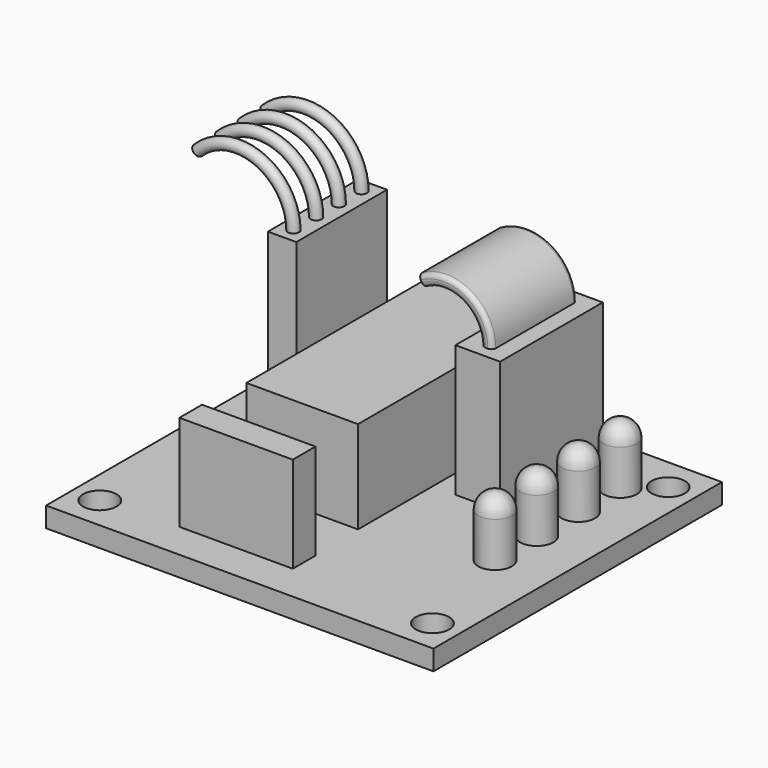
from build123d import *

# Parameters (mm, degrees)
SKETCH_W               = 34.7
SKETCH_H               = 32.3
SKETCH_R               = 1.5
PAD_DEPTH              = 1.8
SKETCH001_W            = 4
SKETCH001_H            = 11.5
PAD001_DEPTH           = 11.8
PAD002_DEPTH           = 9.5
FILLET_R               = 0.4
LINEARPATTERN_COUNT    = 4
LINEARPATTERN_PITCH    = 4.666667
SKETCH004_W            = 10
SKETCH004_H            = 20.5
PAD003_DEPTH           = 8.3
SKETCH005_W            = 2.54
SKETCH005_H            = 2.54
PAD004_DEPTH           = 16.5
SKETCH006_R            = 0.5
LINEARPATTERN001_COUNT = 4
LINEARPATTERN001_PITCH = 2.54
SKETCH008_W            = 10.16
SKETCH008_H            = 2.54
PAD005_DEPTH           = 8.6


with BuildPart() as part:
    # Sketch → Pad (new body)
    with BuildSketch(Plane.XY):
        Rectangle(SKETCH_W, SKETCH_H)
        with Locations((14.9, 13.2)):
            Circle(SKETCH_R, mode=Mode.SUBTRACT)
        with Locations((-14.9, 13.2)):
            Circle(SKETCH_R, mode=Mode.SUBTRACT)
        with Locations((-14.9, -13.2)):
            Circle(SKETCH_R, mode=Mode.SUBTRACT)
        with Locations((14.9, -13.2)):
            Circle(SKETCH_R, mode=Mode.SUBTRACT)
    extrude(amount=PAD_DEPTH)

    # Sketch001 (on Face10 of Pad) → Pad001 (join)
    with BuildSketch(Plane.XY.offset(1.8)):
        with Locations((6, 8.75)):
            Rectangle(SKETCH001_W, SKETCH001_H)
    extrude(amount=PAD001_DEPTH)

    # Sketch002 (on Face13 of Pad001) → Pad002 (join)
    with BuildSketch(Plane.XZ.offset(-4)):
        with BuildLine():
            ThreePointArc((5.5, 13.6), (3.8, 16.544486), (0.4, 16.544486))
            Line((-0.1, 17.410512), (0.4, 16.544486))
            ThreePointArc((6.5, 13.6), (4.3, 17.410512), (-0.1, 17.410512))
            Line((5.5, 13.6), (6.5, 13.6))
        make_face()
    extrude(amount=-PAD002_DEPTH)

    # Fillet
    fillet_edges = [part.edges().sort_by_distance(p)[0] for p in [
        (3.8, 4, 16.544486),
        (4.3, 4, 17.410512),
        (3.8, 13.5, 16.544486),
        (4.3, 13.5, 17.410512),
    ]]
    fillet(fillet_edges, radius=FILLET_R)

    # Sketch003 → Revolution (revolve)
    with BuildSketch(Plane.XZ.offset(3)):
        with BuildLine():
            ThreePointArc((13.85, 5.8), (13.41066, 6.86066), (12.35, 7.3))
            Line((12.35, 1.8), (12.35, 7.3))
            Line((13.85, 1.8), (12.35, 1.8))
            Line((13.85, 5.8), (13.85, 1.8))
        make_face()
    revolution = revolve(axis=Axis((12.35, -3, 7.3), (0, 0, 1)))

    # LinearPattern: Revolution ×4
    with Locations(*[(0, i * LINEARPATTERN_PITCH, 0) for i in range(1, LINEARPATTERN_COUNT)]):
        add(revolution)

    # Sketch004 (on Face15 of LinearPattern) → Pad003 (join)
    with BuildSketch(Plane.XY.offset(1.8)):
        with Locations((-3.05, 4.9)):
            Rectangle(SKETCH004_W, SKETCH004_H)
    extrude(amount=PAD003_DEPTH)

    # Sketch005 (on Face15 of Pad003) → Pad004 (join)
    with BuildSketch(Plane.XY.offset(1.8)):
        with Locations((-10.08, 10.08)):
            Rectangle(SKETCH005_W, SKETCH005_H)
    pad004 = extrude(amount=PAD004_DEPTH)

    # AdditivePipe: sweep along a path in Sketch007
    with BuildLine(Plane.XZ) as additivepipe_path:
        ThreePointArc((-10.08, 18.3), (-13.166583, 22.919398), (-18.615534, 21.835534))
    # Sketch006 (on Face42 of Pad004) → AdditivePipe (sweep)
    with BuildSketch(Plane.XY.offset(18.3)):
        with Locations((-10.08, 10.08)):
            Circle(SKETCH006_R)
    additivepipe = sweep(path=additivepipe_path.line)

    # LinearPattern001: Pad004, AdditivePipe ×4
    with Locations(*[(0, -i * LINEARPATTERN001_PITCH, 0) for i in range(1, LINEARPATTERN001_COUNT)]):
        add(pad004)
        add(additivepipe)

    # Sketch008 (on Face15 of LinearPattern001) → Pad005 (join)
    with BuildSketch(Plane.XY.offset(1.8)):
        with Locations((-2.97, -11.58)):
            Rectangle(SKETCH008_W, SKETCH008_H)
    extrude(amount=PAD005_DEPTH)


solid = part.part
